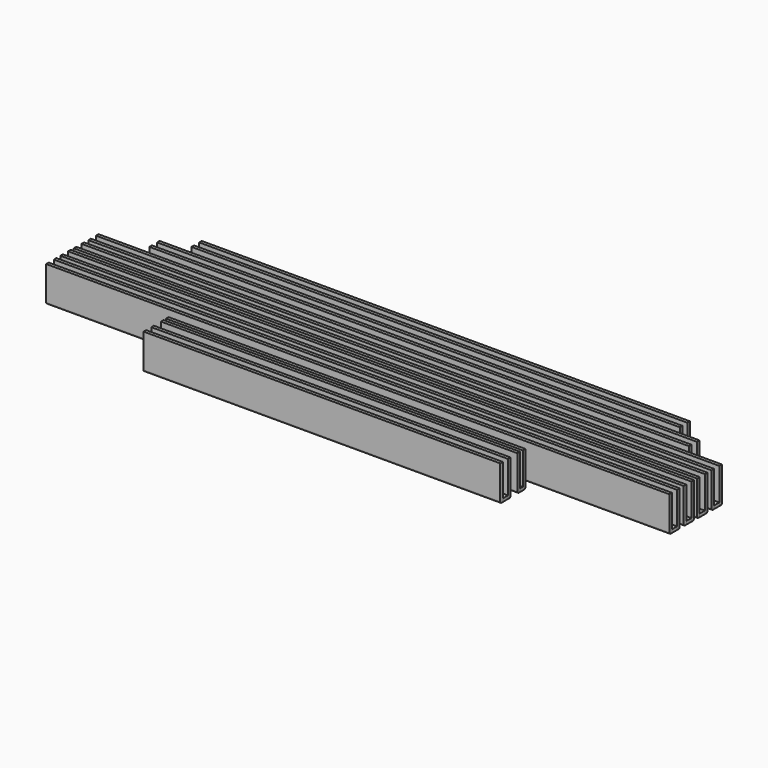
from build123d import *

# Parameters (mm, degrees)
F0_W      = 111
F0_H      = 1
F0_H_2    = 2
F1_DEPTH  = 1
F2_DEPTH  = 11
F3_R      = 0.5
F4_W      = 194
F4_H      = 2
F5_DEPTH  = 1
F4_H_2    = 1
F6_DEPTH  = 11
F7_R      = 0.5
F8_W      = 168
F8_H      = 2
F9_DEPTH  = 1
F8_H_2    = 1
F10_DEPTH = 11
F11_R     = 0.5
F12_W     = 152
F12_H     = 2
F13_DEPTH = 1
F12_H_2   = 1
F14_DEPTH = 11
F15_R     = 0.5


with BuildPart() as f1:
    # F0 (on Top) → F1 (new body)
    with BuildSketch(Plane.XY):
        with Locations((-1.720381, 3.112242)):
            Rectangle(F0_W, F0_H)
        with Locations((-1.720381, -3.150044)):
            Rectangle(F0_W, F0_H_2)
    extrude(amount=F1_DEPTH)


with BuildPart() as f2:
    # F0 (on Top) → F2 (new body)
    with BuildSketch(Plane.XY):
        with Locations((-1.720381, 4.112242)):
            Rectangle(F0_W, F0_H)
        with Locations((-1.720381, 2.112242)):
            Rectangle(F0_W, F0_H)
        with Locations((-1.720381, -1.650044)):
            Rectangle(F0_W, F0_H)
        with Locations((-1.720381, -4.650044)):
            Rectangle(F0_W, F0_H)
    extrude(amount=F2_DEPTH)

    # F3
    f3_edges = [f2.edges().sort_by_distance(p)[0] for p in [
        (-1.720381, -5.150044, 0),
        (-1.720381, -1.150044, 0),
        (-1.720381, 1.612242, 0),
        (-1.720381, 4.612242, 0),
    ]]
    fillet(f3_edges, radius=F3_R)


with BuildPart() as f5:
    # F4 (on Top) → F5 (new body)
    with BuildSketch(Plane.XY):
        with Locations((-0.795144, 26.061376)):
            Rectangle(F4_W, F4_H)
        with Locations((-0.870275, 20.501598)):
            Rectangle(F4_W, F4_H)
        with Locations((-0.945407, 15.392613)):
            Rectangle(F4_W, F4_H)
        with Locations((-0.945407, 9.832834)):
            Rectangle(F4_W, F4_H)
    extrude(amount=F5_DEPTH)


with BuildPart() as f6:
    # F4 (on Top) → F6 (new body)
    with BuildSketch(Plane.XY):
        with Locations((-0.795144, 27.561376)):
            Rectangle(F4_W, F4_H_2)
        with Locations((-0.795144, 24.561376)):
            Rectangle(F4_W, F4_H_2)
        with Locations((-0.870275, 22.001598)):
            Rectangle(F4_W, F4_H_2)
        with Locations((-0.870275, 19.001598)):
            Rectangle(F4_W, F4_H_2)
        with Locations((-0.945407, 16.892613)):
            Rectangle(F4_W, F4_H_2)
        with Locations((-0.945407, 13.892613)):
            Rectangle(F4_W, F4_H_2)
        with Locations((-0.945407, 11.332834)):
            Rectangle(F4_W, F4_H_2)
        with Locations((-0.945407, 8.332834)):
            Rectangle(F4_W, F4_H_2)
    extrude(amount=F6_DEPTH)

    # F7
    f7_edges = [f6.edges().sort_by_distance(p)[0] for p in [
        (-0.945407, 7.832834, 0),
        (-0.945407, 11.832834, 0),
        (-0.945407, 13.392613, 0),
        (-0.945407, 17.392613, 0),
        (-0.870275, 18.501598, 0),
        (-0.870275, 22.501598, 0),
        (-0.795144, 24.061376, 0),
        (-0.795144, 28.061376, 0),
    ]]
    fillet(f7_edges, radius=F7_R)


with BuildPart() as f9:
    # F8 (on Top) → F9 (new body)
    with BuildSketch(Plane.XY):
        with Locations((0, 32.560032)):
            Rectangle(F8_W, F8_H)
    extrude(amount=F9_DEPTH)

    # F8 (on Top) → F10 (join)
    with BuildSketch(Plane.XY):
        with Locations((0, 34.060032)):
            Rectangle(F8_W, F8_H_2)
        with Locations((0, 31.060032)):
            Rectangle(F8_W, F8_H_2)
    extrude(amount=F10_DEPTH)

    # F11
    f11_edges = [f9.edges().sort_by_distance(p)[0] for p in [
        (0, 30.560032, 0),
        (0, 34.560032, 0),
    ]]
    fillet(f11_edges, radius=F11_R)


with BuildPart() as f13:
    # F12 (on Top) → F13 (new body)
    with BuildSketch(Plane.XY):
        with Locations((0, 38.945407)):
            Rectangle(F12_W, F12_H)
    extrude(amount=F13_DEPTH)

    # F12 (on Top) → F14 (join)
    with BuildSketch(Plane.XY):
        with Locations((0, 40.445407)):
            Rectangle(F12_W, F12_H_2)
        with Locations((0, 37.445407)):
            Rectangle(F12_W, F12_H_2)
    extrude(amount=F14_DEPTH)

    # F15
    f15_edges = [f13.edges().sort_by_distance(p)[0] for p in [
        (0, 40.945407, 0),
        (0, 36.945407, 0),
    ]]
    fillet(f15_edges, radius=F15_R)


solid = Compound([f1.part, f2.part, f5.part, f6.part, f9.part, f13.part])
